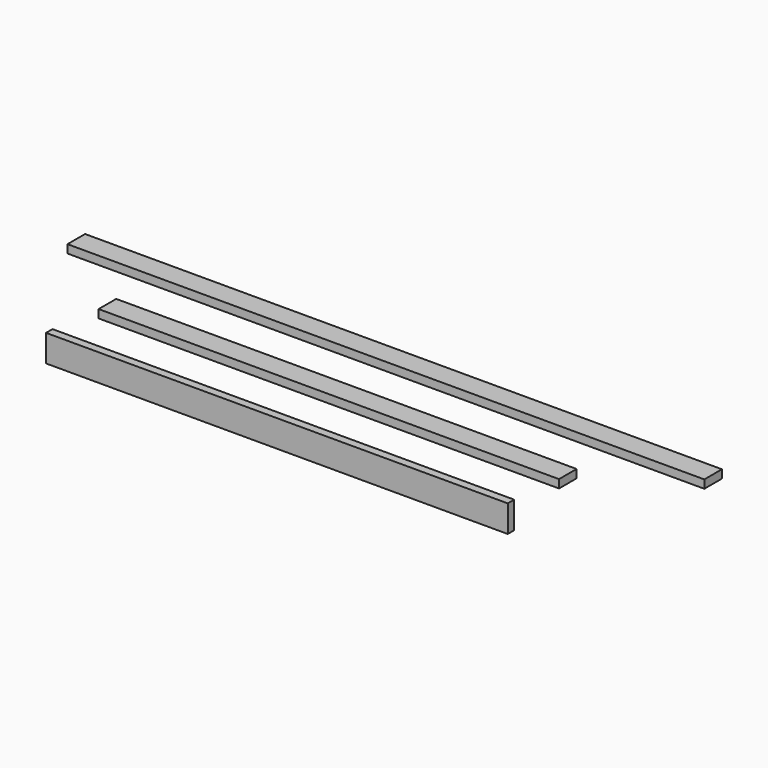
from build123d import *

# Parameters (mm, degrees)
F0_W     = 1397.8
F0_H     = 81.6
F1_DEPTH = 24.5
F2_W     = 1394
F2_H     = 66.6
F3_DEPTH = 25
F4_W     = 1928.2
F4_H     = 66.6
F5_DEPTH = 25


with BuildPart() as f1:
    # F0 (on Front) → F1 (new body)
    with BuildSketch(Plane.XZ):
        Rectangle(F0_W, F0_H)
    extrude(amount=F1_DEPTH)


with BuildPart() as f3:
    # F2 (on Top) → F3 (new body)
    with BuildSketch(Plane.XY):
        with Locations((0, 205.2065)):
            Rectangle(F2_W, F2_H)
    extrude(amount=F3_DEPTH)


with BuildPart() as f5:
    # F4 (on Top) → F5 (new body)
    with BuildSketch(Plane.XY):
        with Locations((2.036833, 418.690205)):
            Rectangle(F4_W, F4_H)
    extrude(amount=F5_DEPTH)


solid = Compound([f1.part, f3.part, f5.part])
